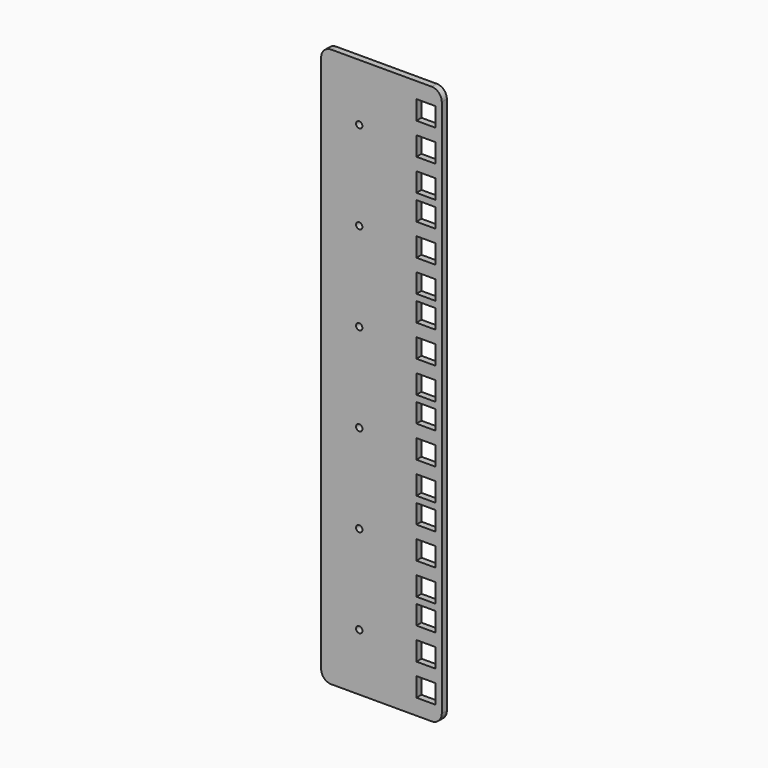
from build123d import *

# Parameters (mm, degrees)
F0_W     = 60.325
F0_H     = 279.4
F0_R     = 1.5875
F0_W_2   = 9.525
F0_H_2   = 9.525
F1_DEPTH = 3.175
F2_R     = 5.08


with BuildPart() as f1:
    # F0 (on Front) → F1 (new body)
    with BuildSketch(Plane.XZ):
        with Locations((30.1625, 139.7)):
            Rectangle(F0_W, F0_H)
        with Locations((19.05, 28.575)):
            Circle(F0_R, mode=Mode.SUBTRACT)
        with Locations((19.05, 73.025)):
            Circle(F0_R, mode=Mode.SUBTRACT)
        with Locations((19.05, 117.475)):
            Circle(F0_R, mode=Mode.SUBTRACT)
        with Locations((52.3875, 12.7)):
            Rectangle(F0_W_2, F0_H_2, mode=Mode.SUBTRACT)
        with Locations((52.3875, 28.575)):
            Rectangle(F0_W_2, F0_H_2, mode=Mode.SUBTRACT)
        with Locations((52.3875, 44.45)):
            Rectangle(F0_W_2, F0_H_2, mode=Mode.SUBTRACT)
        with Locations((52.3875, 57.15)):
            Rectangle(F0_W_2, F0_H_2, mode=Mode.SUBTRACT)
        with Locations((52.3875, 73.025)):
            Rectangle(F0_W_2, F0_H_2, mode=Mode.SUBTRACT)
        with Locations((52.3875, 88.9)):
            Rectangle(F0_W_2, F0_H_2, mode=Mode.SUBTRACT)
        with Locations((52.3875, 101.6)):
            Rectangle(F0_W_2, F0_H_2, mode=Mode.SUBTRACT)
        with Locations((52.3875, 117.475)):
            Rectangle(F0_W_2, F0_H_2, mode=Mode.SUBTRACT)
        with Locations((52.3875, 133.35)):
            Rectangle(F0_W_2, F0_H_2, mode=Mode.SUBTRACT)
        with Locations((19.05, 161.925)):
            Circle(F0_R, mode=Mode.SUBTRACT)
        with Locations((19.05, 206.375)):
            Circle(F0_R, mode=Mode.SUBTRACT)
        with Locations((19.05, 250.825)):
            Circle(F0_R, mode=Mode.SUBTRACT)
        with Locations((52.3875, 146.05)):
            Rectangle(F0_W_2, F0_H_2, mode=Mode.SUBTRACT)
        with Locations((52.3875, 161.925)):
            Rectangle(F0_W_2, F0_H_2, mode=Mode.SUBTRACT)
        with Locations((52.3875, 177.8)):
            Rectangle(F0_W_2, F0_H_2, mode=Mode.SUBTRACT)
        with Locations((52.3875, 190.5)):
            Rectangle(F0_W_2, F0_H_2, mode=Mode.SUBTRACT)
        with Locations((52.3875, 206.375)):
            Rectangle(F0_W_2, F0_H_2, mode=Mode.SUBTRACT)
        with Locations((52.3875, 222.25)):
            Rectangle(F0_W_2, F0_H_2, mode=Mode.SUBTRACT)
        with Locations((52.3875, 234.95)):
            Rectangle(F0_W_2, F0_H_2, mode=Mode.SUBTRACT)
        with Locations((52.3875, 250.825)):
            Rectangle(F0_W_2, F0_H_2, mode=Mode.SUBTRACT)
        with Locations((52.3875, 266.7)):
            Rectangle(F0_W_2, F0_H_2, mode=Mode.SUBTRACT)
    extrude(amount=F1_DEPTH)

    # F2
    f2_edges = [f1.edges().sort_by_distance(p)[0] for p in [
        (0, -1.5875, 279.4),
        (60.325, -1.5875, 279.4),
        (0, -1.5875, 0),
        (60.325, -1.5875, 0),
    ]]
    fillet(f2_edges, radius=F2_R)


solid = f1.part
